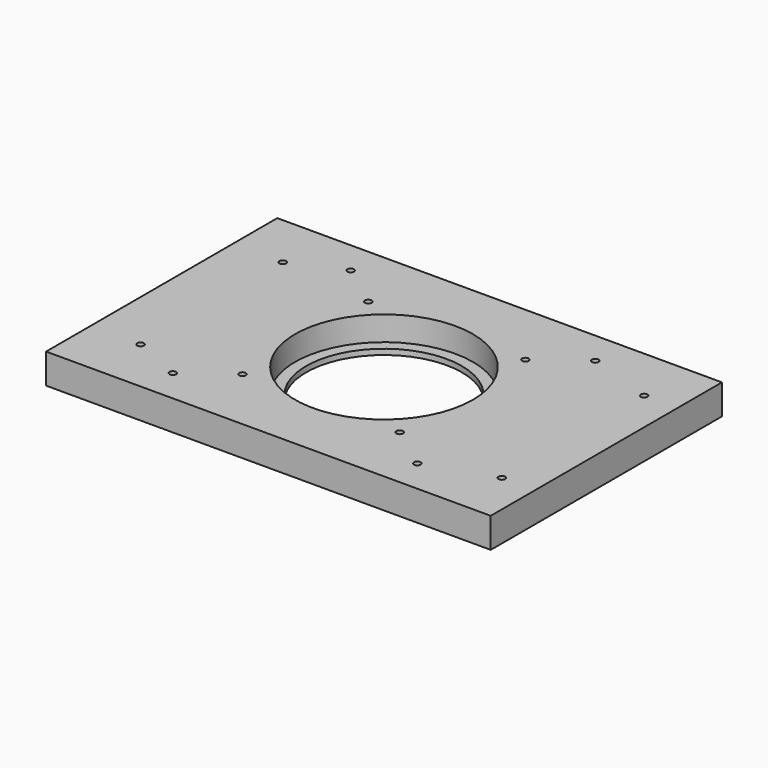
from build123d import *

# Parameters (mm, degrees)
SKETCH_W     = 200
SKETCH_H     = 130
SKETCH_R     = 35
SKETCH_R_2   = 1.5
PAD_DEPTH    = 13.5
SKETCH001_R  = 40
POCKET_DEPTH = 11


with BuildPart() as part:
    # Sketch → Pad (new body)
    with BuildSketch(Plane.XY):
        with Locations((100, 65)):
            Rectangle(SKETCH_W, SKETCH_H)
        with Locations((100, 65)):
            Circle(SKETCH_R, mode=Mode.SUBTRACT)
        with Locations((45, 115)):
            Circle(SKETCH_R_2, mode=Mode.SUBTRACT)
        with Locations((45, 15)):
            Circle(SKETCH_R_2, mode=Mode.SUBTRACT)
        with Locations((155, 115)):
            Circle(SKETCH_R_2, mode=Mode.SUBTRACT)
        with Locations((155, 15)):
            Circle(SKETCH_R_2, mode=Mode.SUBTRACT)
        with Locations((22.5, 105)):
            Circle(SKETCH_R_2, mode=Mode.SUBTRACT)
        with Locations((22.5, 25)):
            Circle(SKETCH_R_2, mode=Mode.SUBTRACT)
        with Locations((185, 105)):
            Circle(SKETCH_R_2, mode=Mode.SUBTRACT)
        with Locations((185, 25)):
            Circle(SKETCH_R_2, mode=Mode.SUBTRACT)
        with Locations((135.350164, 100.350164)):
            Circle(SKETCH_R_2, mode=Mode.SUBTRACT)
        with Locations((64.639486, 29.639486)):
            Circle(SKETCH_R_2, mode=Mode.SUBTRACT)
        with Locations((64.64463, 100.35537)):
            Circle(SKETCH_R_2, mode=Mode.SUBTRACT)
        with Locations((135.359088, 29.640912)):
            Circle(SKETCH_R_2, mode=Mode.SUBTRACT)
    extrude(amount=PAD_DEPTH)

    # Sketch001 (on Face19 of Pad) → Pocket (cut)
    with BuildSketch(Plane.XY.offset(13.5)):
        with Locations((100, 65)):
            Circle(SKETCH001_R)
    extrude(amount=-POCKET_DEPTH, mode=Mode.SUBTRACT)


solid = part.part
